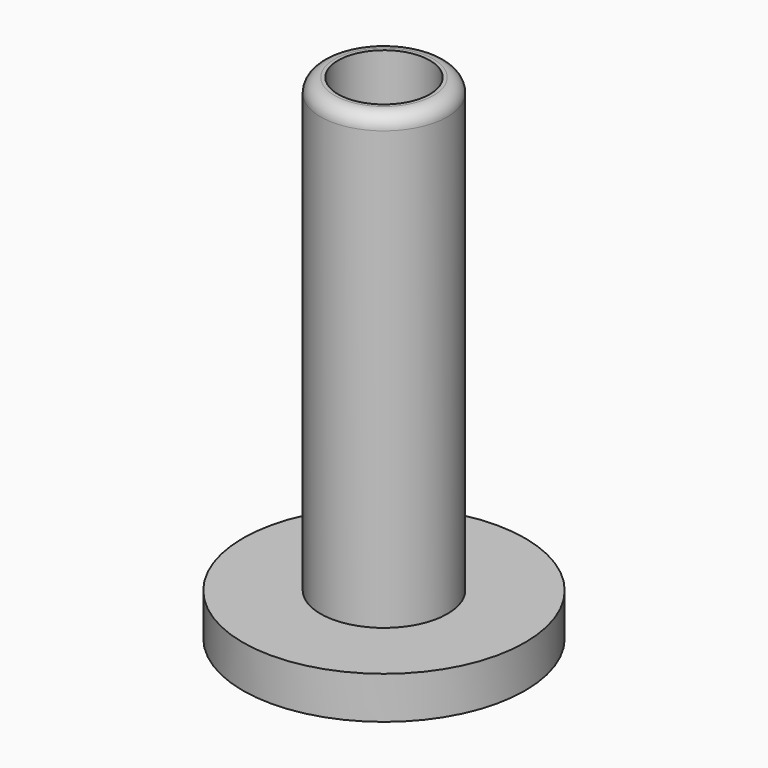
from build123d import *

# Parameters (mm, degrees)
F0_R     = 10
F0_R_2   = 4.5
F0_R_3   = 3.25
F1_DEPTH = 3
F2_DEPTH = 35
F3_R     = 1


with BuildPart() as f1:
    # F0 (on Top) → F1 (new body)
    with BuildSketch(Plane.XY):
        Circle(F0_R)
        Circle(F0_R_2, mode=Mode.SUBTRACT)
        Circle(F0_R_2)
        Circle(F0_R_3, mode=Mode.SUBTRACT)
    extrude(amount=F1_DEPTH)

    # F0 (on Top) → F2 (join)
    with BuildSketch(Plane.XY):
        Circle(F0_R_2)
        Circle(F0_R_3, mode=Mode.SUBTRACT)
    extrude(amount=F2_DEPTH)

    # F3
    f3_edges = [f1.edges().sort_by_distance(p)[0] for p in [
        (-4.5, 0, 35),
        (-3.25, 0, 0),
    ]]
    fillet(f3_edges, radius=F3_R)


solid = f1.part
